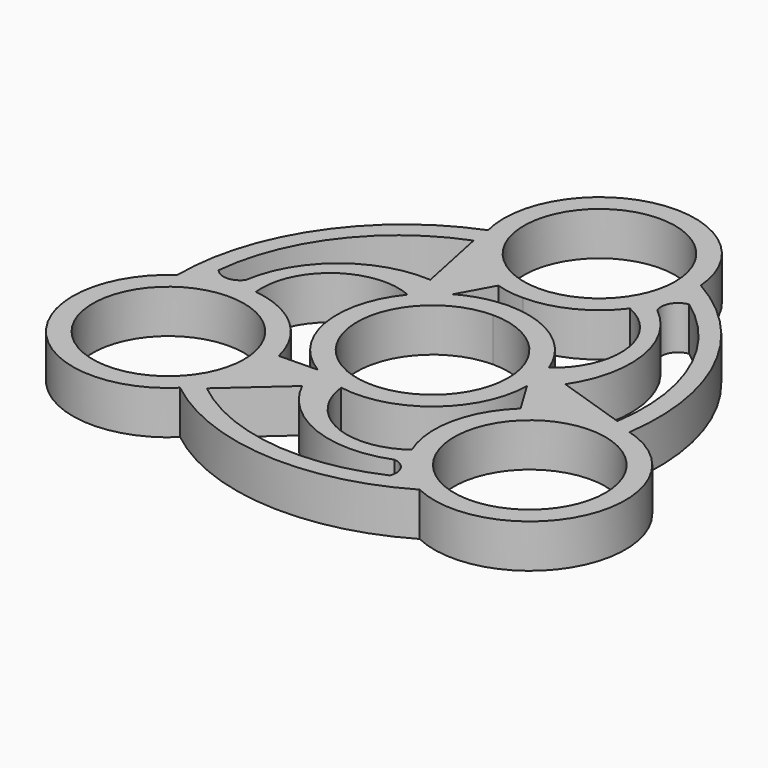
from build123d import *

# Parameters (mm, degrees)
F0_R     = 11.049
F1_DEPTH = 6.35


with BuildPart() as f1:
    # F0 (on Top) → F1 (new body)
    with BuildSketch(Plane.XY):
        with BuildLine():
            ThreePointArc((0, 11.049), (-7.812823, -7.812823), (11.049, 0))
            ThreePointArc((11.049, 0), (7.812823, 7.812823), (0, 11.049))
        make_face()
        with BuildLine():
            ThreePointArc((11.049, 30.48), (-7.812823, 38.292823), (0, 19.431))
            ThreePointArc((0, 19.431), (7.812823, 22.667177), (11.049, 30.48))
        make_face()
        with BuildLine():
            ThreePointArc((20.388099, -27.851922), (39.467067, -20.17153), (30.216541, -1.802447))
            ThreePointArc((30.216541, -1.802447), (27.230144, 17.407217), (13.926422, 31.582573))
            ThreePointArc((13.926422, 31.582573), (-2.264476, 44.265247), (-13.547306, 27.069516))
            ThreePointArc((-13.547306, 27.069516), (-28.690164, 14.878388), (-34.314522, -3.730651))
            ThreePointArc((-34.314522, -3.730651), (-37.202591, -24.093718), (-16.669235, -25.267069))
            ThreePointArc((-16.669235, -25.267069), (1.46002, -32.285604), (20.388099, -27.851922))
        make_face()
        with Locations((-26.396454, -15.24)):
            Circle(F0_R, mode=Mode.SUBTRACT)
        with BuildLine():
            ThreePointArc((-24.710147, -1.37215), (-20.709724, 7.796596), (-10.767389, 8.9008))
            ThreePointArc((-10.767389, 8.9008), (-13.767563, -2.369623), (-7.172004, -11.988463))
            Line((-7.172004, -11.988463), (-12.78411, -12.099142))
            ThreePointArc((-12.78411, -12.099142), (-17.054117, -4.853392), (-24.710147, -1.37215))
        make_face(mode=Mode.SUBTRACT)
        with BuildLine():
            ThreePointArc((13.548183, -23.867834), (15.3921, -25.055532), (15.5478, -27.24332))
            ThreePointArc((15.5478, -27.24332), (0.143167, -29.572149), (-14.195671, -23.479213))
            Line((-14.195671, -23.479213), (-6.069518, -16.243227))
            ThreePointArc((-6.069518, -16.243227), (2.250939, -23.885085), (13.548183, -23.867834))
        make_face(mode=Mode.SUBTRACT)
        with Locations((26.396454, -15.24)):
            Circle(F0_R, mode=Mode.SUBTRACT)
        with BuildLine():
            Line((13.968316, -0.216906), (16.870219, -5.021793))
            ThreePointArc((16.870219, -5.021793), (12.730219, -12.342602), (13.54339, -20.71354))
            ThreePointArc((13.54339, -20.71354), (3.602811, -21.833445), (-2.324624, -13.775232))
            ThreePointArc((-2.324624, -13.775232), (8.935935, -10.738248), (13.968316, -0.216906))
        make_face(mode=Mode.SUBTRACT)
        with BuildLine():
            ThreePointArc((0, 11.049), (7.812823, 7.812823), (11.049, 0))
            ThreePointArc((11.049, 0), (-7.812823, -7.812823), (0, 11.049))
        make_face(mode=Mode.SUBTRACT)
        with BuildLine():
            ThreePointArc((-27.444242, 0.200847), (-29.394777, -0.802184), (-31.367307, 0.15687))
            ThreePointArc((-31.367307, 0.15687), (-25.681816, 14.662088), (-13.235759, 24.033418))
            Line((-13.235759, 24.033418), (-11.032288, 13.37797))
            ThreePointArc((-11.032288, 13.37797), (-21.81056, 9.993172), (-27.444242, 0.200847))
        make_face(mode=Mode.SUBTRACT)
        with BuildLine():
            ThreePointArc((13.092013, 4.874432), (7.97073, 11.47294), (0, 13.97))
            ThreePointArc((0, 13.97), (-3.510832, 13.521648), (-6.796312, 12.20537))
            Line((-6.796312, 12.20537), (-4.086109, 17.120935))
            ThreePointArc((-4.086109, 17.120935), (-2.065764, 16.663578), (0, 16.51))
            ThreePointArc((0, 16.51), (6.240688, 17.981412), (11.166757, 22.08569))
            ThreePointArc((11.166757, 22.08569), (17.106913, 14.036849), (13.092013, 4.874432))
        make_face(mode=Mode.SUBTRACT)
        with BuildLine():
            ThreePointArc((13.896059, 23.666987), (14.002677, 25.857716), (15.819507, 27.08645))
            ThreePointArc((15.819507, 27.08645), (25.538649, 14.910061), (27.43143, -0.554205))
            Line((27.43143, -0.554205), (17.101806, 2.865257))
            ThreePointArc((17.101806, 2.865257), (19.559621, 13.891913), (13.896059, 23.666987))
        make_face(mode=Mode.SUBTRACT)
        with BuildLine():
            ThreePointArc((11.049, 30.48), (7.812823, 22.667177), (0, 19.431))
            ThreePointArc((0, 19.431), (-7.812823, 38.292823), (11.049, 30.48))
        make_face(mode=Mode.SUBTRACT)
    extrude(amount=F1_DEPTH)


solid = f1.part
